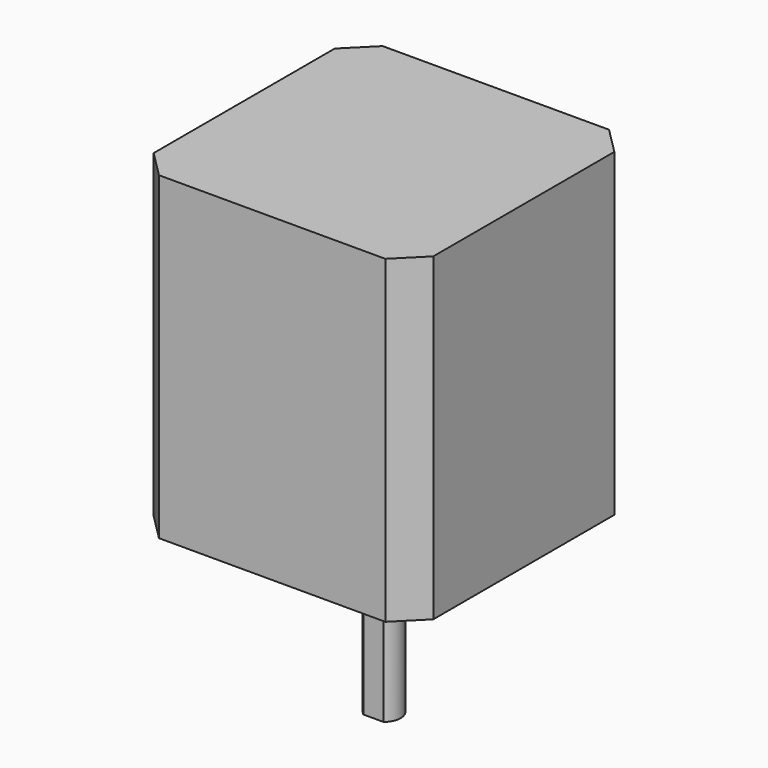
from build123d import *

# Parameters (mm, degrees)
SKETCH_W           = 42
SKETCH_H           = 42
PAD_DEPTH          = 48
CHAMFER_SIZE       = 4
SKETCH001_R        = 11
PAD001_DEPTH       = 2
SKETCH002_R        = 2.5
PAD002_DEPTH       = 24
POCKET_DEPTH       = 15
SKETCH004_R        = 1.25
POCKET001_DEPTH    = 5
POLARPATTERN_COUNT = 4


with BuildPart() as part:
    # Sketch → Pad (new body)
    with BuildSketch(Plane.XY):
        Rectangle(SKETCH_W, SKETCH_H)
    extrude(amount=PAD_DEPTH)

    # Chamfer
    chamfer_edges = [part.edges().sort_by_distance(p)[0] for p in [
        (21, -21, 24),
        (-21, -21, 24),
        (21, 21, 24),
        (-21, 21, 24),
    ]]
    chamfer(chamfer_edges, length=CHAMFER_SIZE)

    # Sketch001 → Pad001 (join)
    with BuildSketch(Plane.XY):
        Circle(SKETCH001_R)
    extrude(amount=-PAD001_DEPTH)

    # Sketch002 (on Face12 of Pad001) → Pad002 (join)
    with BuildSketch(Plane(origin=(0, 0, -2), x_dir=(1, 0, 0), z_dir=(0, 0, -1))):
        Circle(SKETCH002_R)
    extrude(amount=PAD002_DEPTH)

    # Sketch003 (on Face14 of Pad002) → Pocket (cut)
    with BuildSketch(Plane(origin=(0, 0, -26), x_dir=(1, 0, 0), z_dir=(0, 0, -1))):
        with BuildLine():
            ThreePointArc((1.5, 2), (0, 2.5), (-1.5, 2))
            Line((-1.5, 2), (1.5, 2))
        make_face()
    extrude(amount=-POCKET_DEPTH, mode=Mode.SUBTRACT)

    # Sketch004 (on Face2 of Pocket) → Pocket001 (cut)
    with BuildSketch(Plane(origin=(0, 0, 0), x_dir=(1, 0, 0), z_dir=(0, 0, -1))):
        with Locations((15.5, 15.5)):
            Circle(SKETCH004_R)
    pocket001 = extrude(amount=-POCKET001_DEPTH, mode=Mode.SUBTRACT)

    # PolarPattern: Pocket001 ×4 about axis
    polarpattern_axis = Axis((0, 0, 0), (0, 0, 1))
    for i in range(1, POLARPATTERN_COUNT):
        add(pocket001.rotate(polarpattern_axis, i * 360 / POLARPATTERN_COUNT), mode=Mode.SUBTRACT)


solid = part.part
